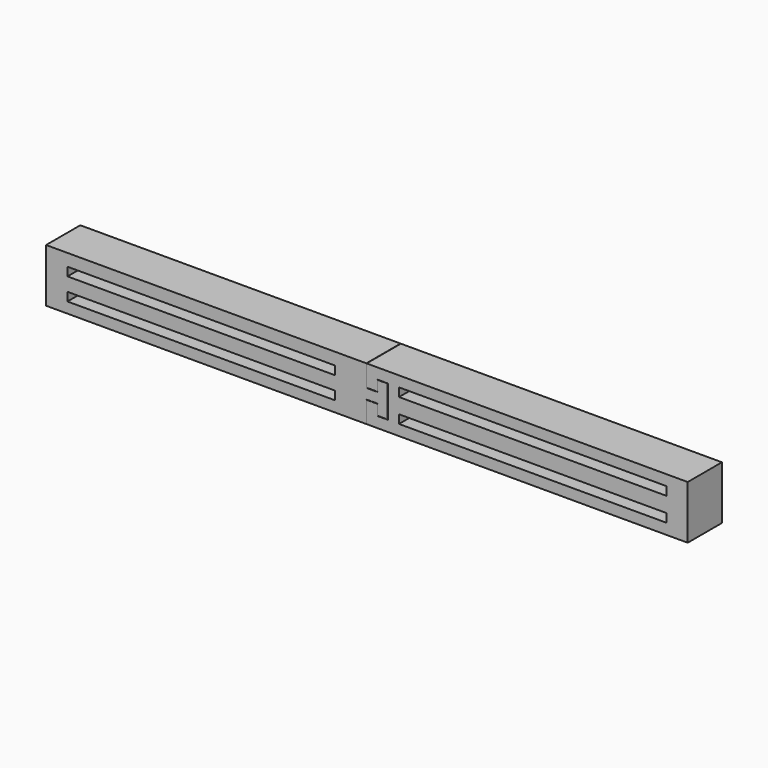
from build123d import *

# Parameters (mm, degrees)
F0_W     = 250
F0_H     = 8
F1_DEPTH = 40
F2_DEPTH = 40


with BuildPart() as f1:
    # F0 (on Front) → F1 (new body)
    with BuildSketch(Plane.XZ):
        Polygon((542.406714, 40), (242.156714, 40), (242.156714, 20), (252.156714, 20), (252.156714, 30), (262.156714, 30), (262.156714, 0), (252.156714, 0), (252.156714, 10), (242.156714, 10), (242.156714, -10), (542.406714, -10), align=None)
        with Locations((397.406714, 4)):
            Rectangle(F0_W, F0_H, mode=Mode.SUBTRACT)
        with Locations((397.406714, 26.155855)):
            Rectangle(F0_W, F0_H, mode=Mode.SUBTRACT)
    extrude(amount=F1_DEPTH)


with BuildPart() as f2:
    # F0 (on Front) → F2 (new body)
    with BuildSketch(Plane.XZ):
        Polygon((241.906714, 40), (-57.593286, 40), (-57.593286, -10), (241.906714, -10), (241.906714, 10.25), (242.156714, 10.25), (252.406714, 10.25), (252.406714, 0.25), (261.906714, 0.25), (261.906714, 29.75), (252.406714, 29.75), (252.406714, 19.75), (242.156714, 19.75), (241.906714, 19.75), align=None)
        with Locations((87.406714, 4)):
            Rectangle(F0_W, F0_H, mode=Mode.SUBTRACT)
        with Locations((87.406714, 24.655822)):
            Rectangle(F0_W, F0_H, mode=Mode.SUBTRACT)
    extrude(amount=F2_DEPTH)


solid = Compound([f1.part, f2.part])
